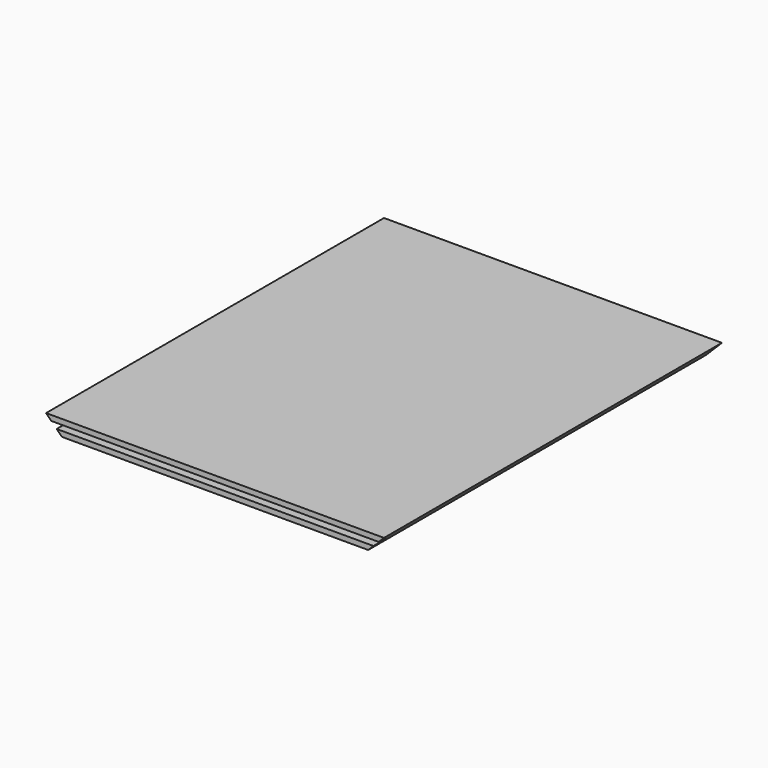
from build123d import *

# Parameters (mm, degrees)
F1_DEPTH = 508
F3_DEPTH = 12.7


with BuildPart() as f1:
    # F0 (on Front) → F1 (new body)
    with BuildSketch(Plane.XZ):
        Polygon((406.4, 0), (0, 0), (19.05, -19.05), (387.35, -19.05), align=None)
    extrude(amount=-F1_DEPTH)

    # F2 (on face) → F3 (cut)
    with BuildSketch(Plane.XZ):
        Polygon((400.05, -6.35), (6.35, -6.35), (12.7, -12.7), (393.7, -12.7), align=None)
    extrude(amount=-F3_DEPTH, mode=Mode.SUBTRACT)


solid = f1.part
